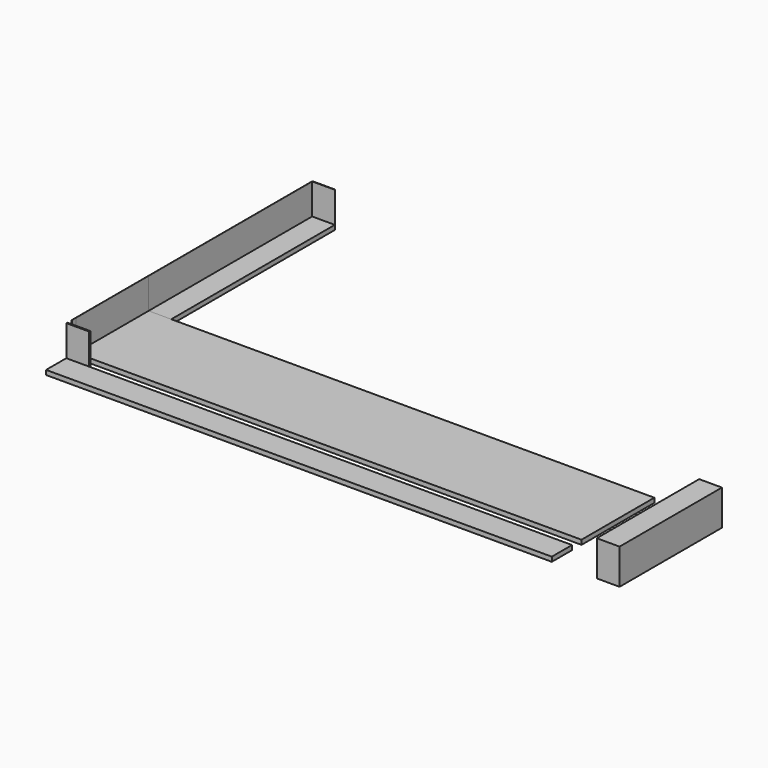
from build123d import *

# Parameters (mm, degrees)
F0_W     = 44.7985618902
F0_H     = 404.2391658774
F1_DEPTH = 9
F0_W_2   = 0.0055646896
F0_H_2   = 180
F0_W_3   = 955.1958734202
F2_DEPTH = 9
F0_W_4   = 0.3171729233
F0_H_3   = 50
F0_W_5   = 0.0603545521
F0_W_6   = 44.9396454479
F0_W_7   = 954.6828270767
F3_DEPTH = 9
F0_H_4   = 2.5599607918
F4_DEPTH = 70
F5_DEPTH = 70
F0_W_8   = 45
F0_H_5   = 253
F6_DEPTH = 70


with BuildPart() as f1:
    # F0 (on Top) → F1 (new body)
    with BuildSketch(Plane.XY):
        with Locations((-477.6007190549, 421.2462169404)):
            Rectangle(F0_W, F0_H)
    extrude(amount=F1_DEPTH)


with BuildPart() as f2:
    # F0 (on Top) → F2 (new body)
    with BuildSketch(Plane.XY):
        with Locations((-500.0027823448, 129.1266340017)):
            Rectangle(F0_W_2, F0_H_2)
        with Locations((-477.6007190549, 129.1266340017)):
            Rectangle(F0_W, F0_H_2)
        with Locations((22.3964986003, 129.1266340017)):
            Rectangle(F0_W_3, F0_H_2)
    extrude(amount=F2_DEPTH)


with BuildPart() as f3:
    # F0 (on Top) → F3 (new body)
    with BuildSketch(Plane.XY):
        with Locations((-500.2189410137, -8.8252942637)):
            Rectangle(F0_W_4, F0_H_3)
        with Locations((-500.0301772761, -8.8252942637)):
            Rectangle(F0_W_5, F0_H_3)
        with Locations((-477.5301772761, -8.8252942637)):
            Rectangle(F0_W_6, F0_H_3)
        with Locations((22.2810589863, -8.8252942637)):
            Rectangle(F0_W_7, F0_H_3)
    extrude(amount=F3_DEPTH)


with BuildPart() as f4:
    # F0 (on Top) → F4 (new body)
    with BuildSketch(Plane.XY):
        with Locations((-500.0301772761, 17.4546861322)):
            Rectangle(F0_W_5, F0_H_4)
        with Locations((-477.5301772761, 17.4546861322)):
            Rectangle(F0_W_6, F0_H_4)
    extrude(amount=F4_DEPTH)


with BuildPart() as f5:
    # F0 (on Top) → F5 (new body)
    with BuildSketch(Plane.XY):
        Polygon((-500, 219.1266340017), (-500, 623.3657998791), (-455.2014381098, 623.3657998791), (-455.2014381098, 624.2948468162), (-500.2014381098, 624.2948468162), (-500.2014381098, 29.2948468162), (-500, 29.2948468162), (-500, 39.1266340017), (-500.0055646896, 39.1266340017), (-500.0055646896, 219.1266340017), align=None)
    extrude(amount=F5_DEPTH)


with BuildPart() as f6:
    # F0 (on Top) → F6 (new body)
    with BuildSketch(Plane.XY):
        with Locations((611.0157072544, 92.8157727197)):
            Rectangle(F0_W_8, F0_H_5)
    extrude(amount=F6_DEPTH)


solid = Compound([f1.part, f2.part, f3.part, f4.part, f5.part, f6.part])
